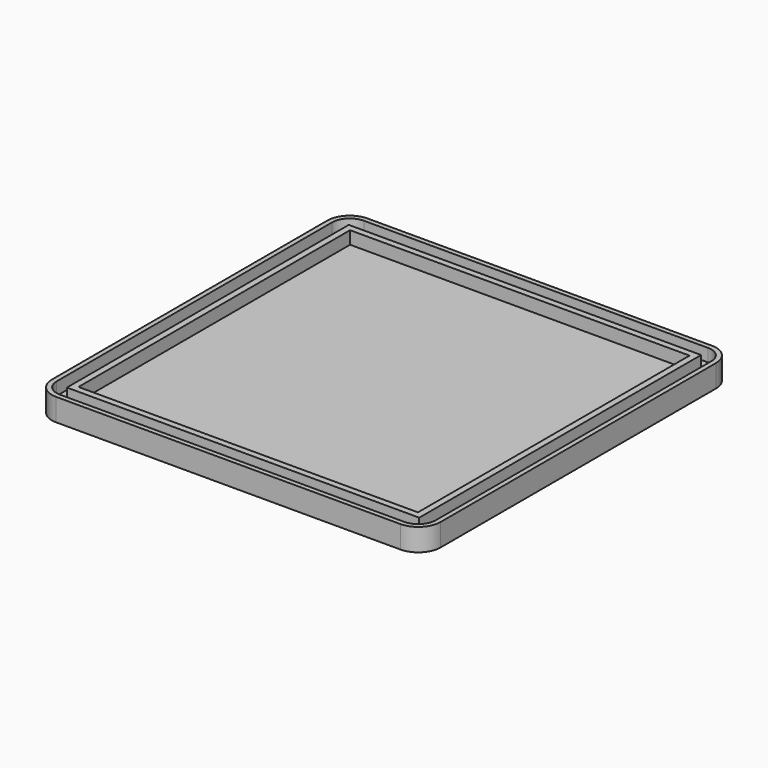
from build123d import *

# Parameters (mm, degrees)
F0_W     = 110
F0_H     = 110
F0_W_2   = 106
F0_H_2   = 106
F1_DEPTH = 3
F2_DEPTH = 7
F3_DEPTH = 7


with BuildPart() as f1:
    # F0 (on Top) → F1 (new body)
    with BuildSketch(Plane.XY):
        with BuildLine():
            Line((60.5, -53.5089111648), (60.5, 54))
            ThreePointArc((60.5, 54), (58.5961940777, 58.5961940777), (54, 60.5))
            Line((54, 60.5), (-53.5089111648, 60.5))
            ThreePointArc((-53.5089111648, 60.5), (-58.452357488, 58.452357488), (-60.5, 53.5089111648))
            Line((-60.5, 53.5089111648), (-60.5, -54))
            ThreePointArc((-60.5, -54), (-58.5961940777, -58.5961940777), (-54, -60.5))
            Line((-54, -60.5), (53.5089111648, -60.5))
            ThreePointArc((53.5089111648, -60.5), (58.452357488, -58.452357488), (60.5, -53.5089111648))
        make_face()
        with BuildLine():
            ThreePointArc((-59, 53.5089111648), (-57.3916978342, 57.3916967983), (-53.5089126297, 59))
            Line((-53.5089126297, 59), (54, 59))
            ThreePointArc((54, 59), (57.5355339059, 57.5355339059), (59, 54))
            Line((59, 54), (59, -53.5089111648))
            ThreePointArc((59, -53.5089111648), (57.3916973163, -57.3916973163), (53.5089111648, -59))
            Line((53.5089111648, -59), (-54, -59))
            ThreePointArc((-54, -59), (-57.535533861, -57.5355339509), (-59, -54.0000001272))
            Line((-59, -54.0000001272), (-59, 53.5089111648))
        make_face(mode=Mode.SUBTRACT)
        with BuildLine():
            Line((54, 59), (-53.5089126297, 59))
            ThreePointArc((-53.5089126297, 59), (-57.3916978342, 57.3916967983), (-59, 53.5089111648))
            Line((-59, 53.5089111648), (-59, -54.0000001272))
            ThreePointArc((-59, -54.0000001272), (-57.535533861, -57.5355339509), (-54, -59))
            Line((-54, -59), (53.5089111648, -59))
            ThreePointArc((53.5089111648, -59), (57.3916973163, -57.3916973163), (59, -53.5089111648))
            Line((59, -53.5089111648), (59, 54))
            ThreePointArc((59, 54), (57.5355339059, 57.5355339059), (54, 59))
        make_face()
        Rectangle(F0_W, F0_H, mode=Mode.SUBTRACT)
        Rectangle(F0_W_2, F0_H_2)
        Polygon((-53, -53), (-55, -55), (55, -55), (53, -53), align=None)
        Polygon((-53, 53), (-55, 55), (-55, -55), (-53, -53), align=None)
        Polygon((55, 55), (-55, 55), (-53, 53), (53, 53), align=None)
        Polygon((55, -55), (55, 55), (53, 53), (53, -53), align=None)
    extrude(amount=F1_DEPTH)

    # F0 (on Top) → F2 (join)
    with BuildSketch(Plane.XY):
        with BuildLine():
            Line((60.5, -53.5089111648), (60.5, 54))
            ThreePointArc((60.5, 54), (58.5961940777, 58.5961940777), (54, 60.5))
            Line((54, 60.5), (-53.5089111648, 60.5))
            ThreePointArc((-53.5089111648, 60.5), (-58.452357488, 58.452357488), (-60.5, 53.5089111648))
            Line((-60.5, 53.5089111648), (-60.5, -54))
            ThreePointArc((-60.5, -54), (-58.5961940777, -58.5961940777), (-54, -60.5))
            Line((-54, -60.5), (53.5089111648, -60.5))
            ThreePointArc((53.5089111648, -60.5), (58.452357488, -58.452357488), (60.5, -53.5089111648))
        make_face()
        with BuildLine():
            ThreePointArc((-59, 53.5089111648), (-57.3916978342, 57.3916967983), (-53.5089126297, 59))
            Line((-53.5089126297, 59), (54, 59))
            ThreePointArc((54, 59), (57.5355339059, 57.5355339059), (59, 54))
            Line((59, 54), (59, -53.5089111648))
            ThreePointArc((59, -53.5089111648), (57.3916973163, -57.3916973163), (53.5089111648, -59))
            Line((53.5089111648, -59), (-54, -59))
            ThreePointArc((-54, -59), (-57.535533861, -57.5355339509), (-59, -54.0000001272))
            Line((-59, -54.0000001272), (-59, 53.5089111648))
        make_face(mode=Mode.SUBTRACT)
    extrude(amount=F2_DEPTH)

    # F0 (on Top) → F3 (join)
    with BuildSketch(Plane.XY):
        Polygon((55, 55), (-55, 55), (-53, 53), (53, 53), align=None)
        Polygon((-53, -53), (-55, -55), (55, -55), (53, -53), align=None)
        Polygon((-53, 53), (-55, 55), (-55, -55), (-53, -53), align=None)
        Polygon((55, -55), (55, 55), (53, 53), (53, -53), align=None)
    extrude(amount=F3_DEPTH)


solid = f1.part
